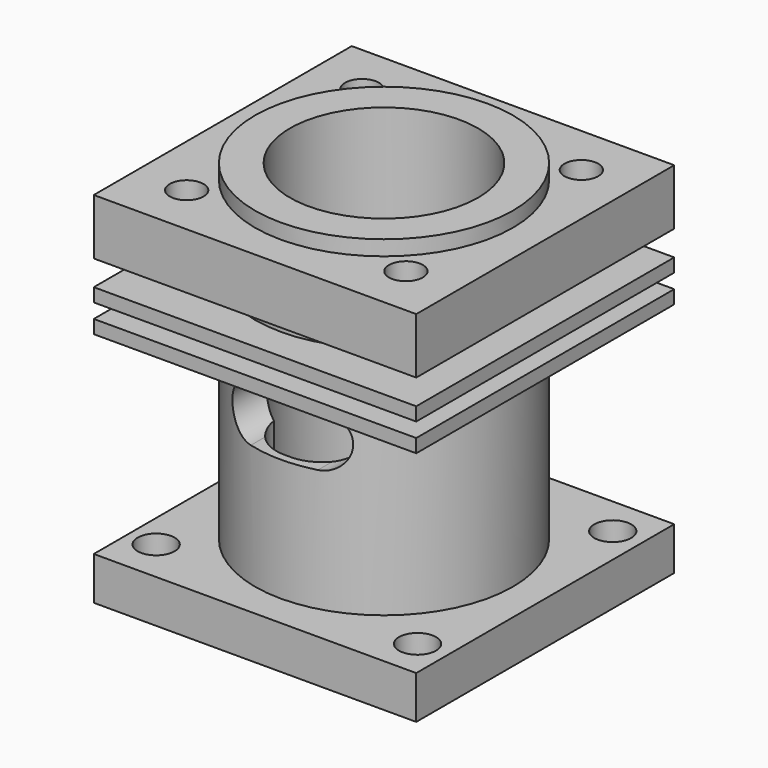
from build123d import *

# Parameters (mm, degrees)
F0_R      = 7.62
F0_R_2    = 5.55625
F1_DEPTH  = 11.4935
F3_W      = 19.05
F3_H      = 19.05
F3_R      = 5.55625
F4_DEPTH  = 2.54
F6_W      = 19.05
F6_H      = 19.05
F6_R      = 5.55625
F7_DEPTH  = 0.79375
F9_W      = 19.05
F9_H      = 19.05
F9_R      = 5.55625
F10_DEPTH = 0.79375
F12_W     = 19.05
F12_H     = 19.05
F12_R     = 5.55625
F13_DEPTH = 3.302
F15_D     = 1.999996
F15_DEPTH = 3.302
F16_R     = 1.0922
F17_DEPTH = 2.54
F19_DEPTH = 11.43
F21_DEPTH = 11.43


with BuildPart() as f1:
    # F0 (on Top) → F1 (new body, symmetric)
    with BuildSketch(Plane.XY):
        Circle(F0_R)
        Circle(F0_R_2, mode=Mode.SUBTRACT)
    extrude(amount=F1_DEPTH, both=True)

    # F3 (on offset) → F4 (join)
    with BuildSketch(Plane(origin=(0, 0, -10.6045), x_dir=(1, 0, 0), z_dir=(0, 0, -1))):
        Rectangle(F3_W, F3_H)
        Circle(F3_R, mode=Mode.SUBTRACT)
    extrude(amount=-F4_DEPTH)

    # F6 (on offset) → F7 (join)
    with BuildSketch(Plane(origin=(0, 0, 3.3655), x_dir=(1, 0, 0), z_dir=(0, 0, -1))):
        Rectangle(F6_W, F6_H)
        Circle(F6_R, mode=Mode.SUBTRACT)
    extrude(amount=-F7_DEPTH)

    # F9 (on offset) → F10 (join)
    with BuildSketch(Plane(origin=(0, 0, 5.0165), x_dir=(1, 0, 0), z_dir=(0, 0, -1))):
        Rectangle(F9_W, F9_H)
        Circle(F9_R, mode=Mode.SUBTRACT)
    extrude(amount=-F10_DEPTH)

    # F12 (on offset) → F13 (join)
    with BuildSketch(Plane(origin=(0, 0, 7.3025), x_dir=(1, 0, 0), z_dir=(0, 0, -1))):
        Rectangle(F12_W, F12_H)
        Circle(F12_R, mode=Mode.SUBTRACT)
    extrude(amount=-F13_DEPTH)

    # F15
    with Locations(Plane.XY.offset(10.6045)):
        with Locations((-6.477, -6.477), (-6.477, 6.477), (6.477, 6.477), (6.477, -6.477)):
            Hole(F15_D / 2, depth=F15_DEPTH)

    # F16 (on face) → F17 (cut, through all)
    with BuildSketch(Plane(origin=(0, 0, -10.6045), x_dir=(1, 0, 0), z_dir=(0, 0, -1))):
        with Locations((-7.874, 6.985)):
            Circle(F16_R)
        with Locations((7.747, 7.207488)):
            Circle(F16_R)
        with Locations((7.747, -7.207488)):
            Circle(F16_R)
        with Locations((-7.874, -6.985)):
            Circle(F16_R)
    extrude(amount=-F17_DEPTH, mode=Mode.SUBTRACT)

    # F18 (on face) → F19 (cut)
    with BuildSketch(Plane(origin=(0, 0, -11.4935), x_dir=(1, 0, 0), z_dir=(0, 0, -1))):
        with BuildLine():
            ThreePointArc((2.54519, 4.93902), (1.723461, 6.558707), (0, 7.131685))
            ThreePointArc((0, 7.131685), (-1.723461, 6.558707), (-2.54519, 4.93902))
            ThreePointArc((-2.54519, 4.93902), (0, 5.55625), (2.54519, 4.93902))
        make_face()
    extrude(amount=-F19_DEPTH, mode=Mode.SUBTRACT)

    # F20 (on Front) → F21 (cut)
    with BuildSketch(Plane.XZ):
        with BuildLine():
            Line((1.9812, 2.3368), (-1.9812, 2.3368))
            ThreePointArc((-1.9812, 2.3368), (-3.5687, 0.7493), (-1.9812, -0.8382))
            Line((-1.9812, -0.8382), (1.9812, -0.8382))
            ThreePointArc((1.9812, -0.8382), (3.5687, 0.7493), (1.9812, 2.3368))
        make_face()
    extrude(amount=F21_DEPTH, mode=Mode.SUBTRACT)


solid = f1.part
